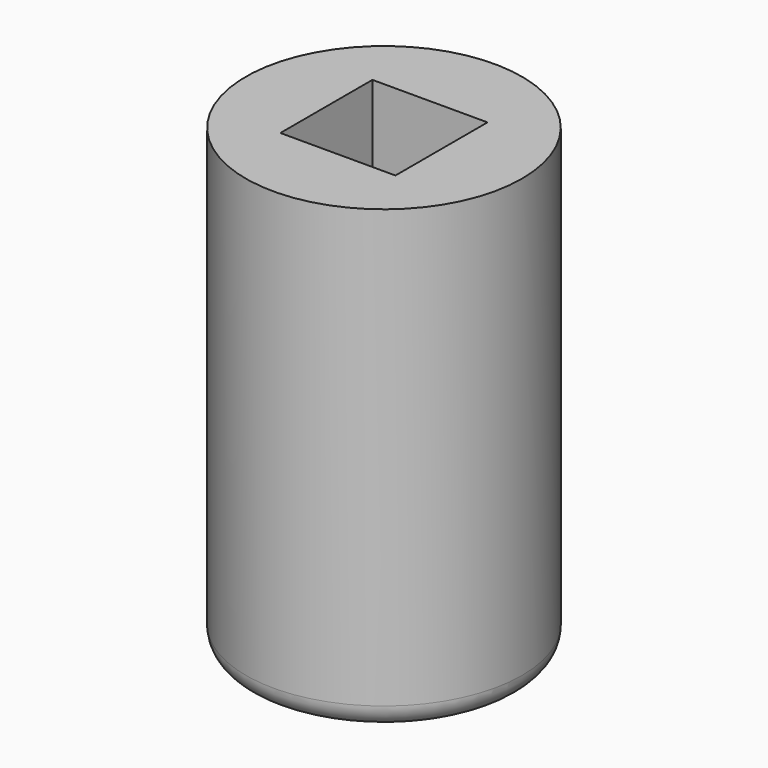
from build123d import *

# Parameters (mm, degrees)
SKETCH_R     = 3
PAD_DEPTH    = 10
SKETCH001_W  = 2.5
SKETCH001_H  = 2.5
POCKET_DEPTH = 4
FILLET_R     = 0.5


with BuildPart() as part:
    # Sketch → Pad (new body)
    with BuildSketch(Plane.XY):
        Circle(SKETCH_R)
    extrude(amount=PAD_DEPTH)

    # Sketch001 (on Face3 of Pad) → Pocket (cut)
    with BuildSketch(Plane.XY.offset(10)):
        Rectangle(SKETCH001_W, SKETCH001_H)
    extrude(amount=-POCKET_DEPTH, mode=Mode.SUBTRACT)

    # Fillet
    fillet_edges = [part.edges().sort_by_distance(p)[0] for p in [
        (-3, 0, 0),
    ]]
    fillet(fillet_edges, radius=FILLET_R)


solid = part.part
